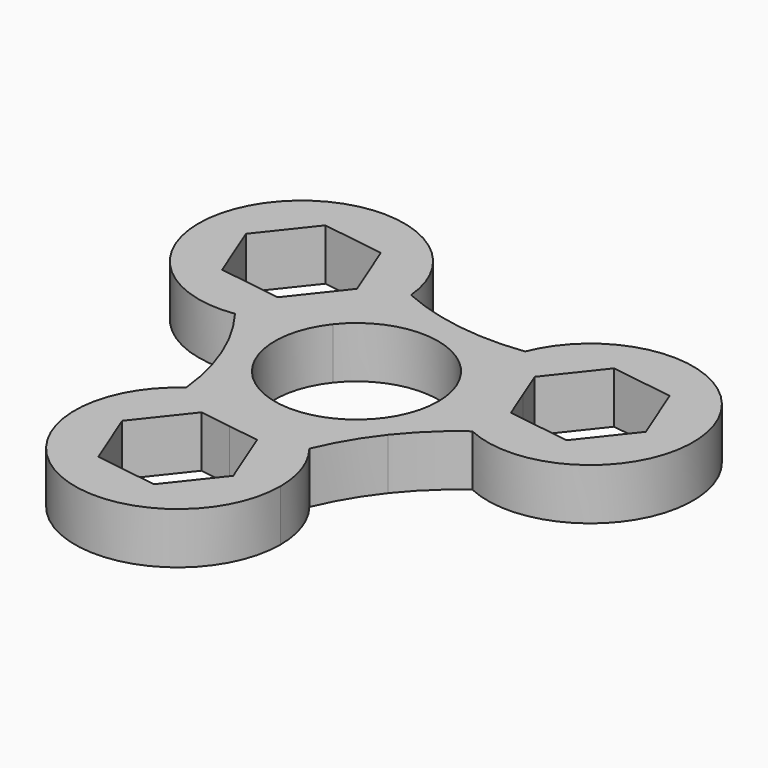
from build123d import *

# Parameters (mm, degrees)
F1_DEPTH = 7


with BuildPart() as f1:
    # F0 (on Top) → F1 (new body)
    with BuildSketch(Plane.XY):
        with BuildLine():
            ThreePointArc((2.1746022478, 14.8415331103), (6.4977862425, 13.5195700356), (10.2307544738, 10.9695789753))
            ThreePointArc((10.2307544738, 10.9695789753), (10.5585141702, 12.900767483), (11.1526052364, 14.7673074037))
            ThreePointArc((11.1526052364, 14.7673074037), (6.6610534474, 14.4959482424), (2.1746022478, 14.8415331103))
        make_face()
        with BuildLine():
            ThreePointArc((-6.6537135081, 13.4435150371), (-2.3461080653, 14.8153898682), (2.1746022478, 14.8415331103))
            ThreePointArc((2.1746022478, 14.8415331103), (-2.222405254, 15.7975651559), (-6.4473076734, 17.3460714654))
            ThreePointArc((-6.4473076734, 17.3460714654), (-6.4074297998, 16.7371058402), (-6.3941287506, 16.1269808862))
            ThreePointArc((-6.3941287506, 16.1269808862), (-6.4591760525, 14.7789848542), (-6.6537135081, 13.4435150371))
        make_face()
        with BuildLine():
            ThreePointArc((-14.6153112984, 3.3753037866), (-16.4516494537, 2.6935577561), (-18.3651659754, 2.2747857513))
            ThreePointArc((-18.3651659754, 2.2747857513), (-15.8843861596, -1.4793326091), (-13.9404458375, -5.5375057427))
            ThreePointArc((-13.9404458375, -5.5375057427), (-14.9571842212, -1.1325370512), (-14.6153112984, 3.3753037866))
        make_face()
        with BuildLine():
            ThreePointArc((-11.7984847082, -14.2565679638), (-10.1191795776, -13.2481782826), (-8.3155687842, -12.484042446))
            ThreePointArc((-8.3155687842, -12.484042446), (-11.6574499679, -9.4394841091), (-13.9404458375, -5.5375057427))
            ThreePointArc((-13.9404458375, -5.5375057427), (-12.5698901189, -9.8234419736), (-11.7984847082, -14.2565679638))
        make_face()
        with BuildLine():
            ThreePointArc((7.2125607389, -17.042093155), (9.2233325136, -13.0166159499), (11.7658431097, -9.3040279405))
            ThreePointArc((11.7658431097, -9.3040279405), (8.4593976642, -12.3870331863), (4.3845568245, -14.3448827619))
            ThreePointArc((4.3845568245, -14.3448827619), (5.8931352835, -15.5943252391), (7.2125607389, -17.042093155))
        make_face()
        with BuildLine():
            ThreePointArc((18.2457923815, -3.0895035015), (16.5328487354, -2.1393774383), (14.9692822923, -0.959472591))
            ThreePointArc((14.9692822923, -0.959472591), (14.0035578894, -5.375906104), (11.7658431097, -9.3040279405))
            ThreePointArc((11.7658431097, -9.3040279405), (14.792295096, -5.9741234333), (18.2457923815, -3.0895035015))
        make_face()
        with BuildLine():
            ThreePointArc((-15.0224460068, 22.9199938039), (-10.9533439645, 19.7969343363), (-6.4473076734, 17.3460714654))
            ThreePointArc((-6.4473076734, 17.3460714654), (-31.3755826932, 24.8107398249), (-18.3651659754, 2.2747857513))
            ThreePointArc((-18.3651659754, 2.2747857513), (-21.7888075854, 6.0944414943), (-25.7658114944, 9.3339679685))
            Line((-25.7658114944, 9.3339679685), (-28.9628918775, 17.3824881445))
            Line((-28.9628918775, 17.3824881445), (-23.5912091337, 24.1755010623))
            Line((-23.5912091337, 24.1755010623), (-15.0224460068, 22.9199938039))
        make_face()
        with BuildLine():
            ThreePointArc((27.3605198922, 1.5498229669), (22.6213200346, -0.4125930385), (18.2457923815, -3.0895035015))
            ThreePointArc((18.2457923815, -3.0895035015), (31.6851726942, -2.2094309865), (38.1634395091, 9.598343143))
            ThreePointArc((38.1634395091, 9.598343143), (26.7948193926, 23.348828222), (11.1526052364, 14.7673074037))
            ThreePointArc((11.1526052364, 14.7673074037), (16.1723449486, 15.82244014), (20.966359126, 17.646863319))
            Line((20.966359126, 17.646863319), (29.5351222529, 16.3913560607))
            Line((29.5351222529, 16.3913560607), (32.732202636, 8.3428358846))
            Line((32.732202636, 8.3428358846), (27.3605198922, 1.5498229669))
        make_face()
        with BuildLine():
            ThreePointArc((10.2306892415, -25.7253240292), (9.454648576, -21.1289233158), (7.2125607389, -17.042093155))
            ThreePointArc((7.2125607389, -17.042093155), (5.6164626368, -21.9168816343), (4.7994523683, -26.9808312875))
            Line((4.7994523683, -26.9808312875), (-0.5722303754, -33.7738442052))
            Line((-0.5722303754, -33.7738442052), (-9.1409935023, -32.5183369469))
            Line((-9.1409935023, -32.5183369469), (-12.3380738854, -24.4698167708))
            ThreePointArc((-12.3380738854, -24.4698167708), (-11.6679760701, -19.3843412978), (-11.7984847082, -14.2565679638))
            ThreePointArc((-11.7984847082, -14.2565679638), (-10.2342765243, -38.1432231127), (10.2306892415, -25.7253240292))
        make_face()
        with BuildLine():
            ThreePointArc((13.9404458706, 5.5375056594), (14.7327303657, 2.818981371), (15, 0))
            ThreePointArc((15, 0), (14.9923186063, -0.4799820909), (14.9692822923, -0.959472591))
            ThreePointArc((14.9692822923, -0.959472591), (16.5328487354, -2.1393774383), (18.2457923815, -3.0895035015))
            ThreePointArc((18.2457923815, -3.0895035015), (22.6213200346, -0.4125930385), (27.3605198922, 1.5498229669))
            Line((27.3605198922, 1.5498229669), (18.7917567653, 2.8053302252))
            Line((18.7917567653, 2.8053302252), (17.1932165738, 6.8295903133))
            Line((17.1932165738, 6.8295903133), (13.9404458706, 5.5375056594))
        make_face()
        with BuildLine():
            ThreePointArc((10.2307544738, 10.9695789753), (12.3870330043, 8.4593979307), (13.9404458706, 5.5375056594))
            Line((13.9404458706, 5.5375056594), (17.1932165738, 6.8295903133))
            Line((17.1932165738, 6.8295903133), (15.5946763822, 10.8538504013))
            Line((15.5946763822, 10.8538504013), (20.966359126, 17.646863319))
            ThreePointArc((20.966359126, 17.646863319), (16.1723449486, 15.82244014), (11.1526052364, 14.7673074037))
            ThreePointArc((11.1526052364, 14.7673074037), (10.5585141702, 12.900767483), (10.2307544738, 10.9695789753))
        make_face()
        with BuildLine():
            ThreePointArc((-11.76584351, 9.3040274344), (-9.4394840743, 11.6574499961), (-6.6537135081, 13.4435150371))
            ThreePointArc((-6.6537135081, 13.4435150371), (-6.4591760525, 14.7789848542), (-6.3941287506, 16.1269808862))
            ThreePointArc((-6.3941287506, 16.1269808862), (-6.4074297998, 16.7371058402), (-6.4473076734, 17.3460714654))
            ThreePointArc((-6.4473076734, 17.3460714654), (-10.9533439645, 19.7969343363), (-15.0224460068, 22.9199938039))
            Line((-15.0224460068, 22.9199938039), (-11.8253656237, 14.8714736279))
            Line((-11.8253656237, 14.8714736279), (-14.5112069956, 11.474967169))
            Line((-14.5112069956, 11.474967169), (-11.76584351, 9.3040274344))
        make_face()
        with BuildLine():
            ThreePointArc((-14.6153112984, 3.3753037866), (-13.5195700109, 6.4977862939), (-11.76584351, 9.3040274344))
            Line((-11.76584351, 9.3040274344), (-14.5112069956, 11.474967169))
            Line((-14.5112069956, 11.474967169), (-17.1970483675, 8.0784607102))
            Line((-17.1970483675, 8.0784607102), (-25.7658114944, 9.3339679685))
            ThreePointArc((-25.7658114944, 9.3339679685), (-21.7888075854, 6.0944414943), (-18.3651659754, 2.2747857513))
            ThreePointArc((-18.3651659754, 2.2747857513), (-16.4516494537, 2.6935577561), (-14.6153112984, 3.3753037866))
        make_face()
        with BuildLine():
            Line((-2.6820095782, -18.3045574823), (-2.1746023607, -14.8415330938))
            ThreePointArc((-2.1746023607, -14.8415330938), (-5.3759058028, -14.003558005), (-8.3155687842, -12.484042446))
            ThreePointArc((-8.3155687842, -12.484042446), (-10.1191795776, -13.2481782826), (-11.7984847082, -14.2565679638))
            ThreePointArc((-11.7984847082, -14.2565679638), (-11.6679760701, -19.3843412978), (-12.3380738854, -24.4698167708))
            Line((-12.3380738854, -24.4698167708), (-6.9663911416, -17.6768038531))
            Line((-6.9663911416, -17.6768038531), (-2.6820095782, -18.3045574823))
        make_face()
        with BuildLine():
            ThreePointArc((7.2125607389, -17.042093155), (5.8931352835, -15.5943252391), (4.3845568245, -14.3448827619))
            ThreePointArc((4.3845568245, -14.3448827619), (1.1325370065, -14.9571842246), (-2.1746023607, -14.8415330938))
            Line((-2.1746023607, -14.8415330938), (-2.6820095782, -18.3045574823))
            Line((-2.6820095782, -18.3045574823), (1.6023719853, -18.9323111115))
            Line((1.6023719853, -18.9323111115), (4.7994523683, -26.9808312875))
            ThreePointArc((4.7994523683, -26.9808312875), (5.6164626368, -21.9168816343), (7.2125607389, -17.042093155))
        make_face()
        with BuildLine():
            ThreePointArc((11.1523566965, 4.4300045275), (10.3004252283, 7.6446709467), (10.2307544738, 10.9695789753))
            ThreePointArc((10.2307544738, 10.9695789753), (6.4977862425, 13.5195700356), (2.1746022478, 14.8415331103))
            ThreePointArc((2.1746022478, 14.8415331103), (-2.3461080653, 14.8153898682), (-6.6537135081, 13.4435150371))
            ThreePointArc((-6.6537135081, 13.4435150371), (-7.674318088, 10.2783556881), (-9.412674808, 7.4432219475))
            Line((-9.412674808, 7.4432219475), (-8.7263339365, 6.9004870138))
            ThreePointArc((-8.7263339365, 6.9004870138), (1.6128300842, 11.0074703779), (10.3391640207, 4.1069833641))
            Line((10.3391640207, 4.1069833641), (11.1523566965, 4.4300045275))
        make_face()
        with BuildLine():
            ThreePointArc((11.7658431097, -9.3040279405), (14.0035578894, -5.375906104), (14.9692822923, -0.959472591))
            ThreePointArc((14.9692822923, -0.959472591), (12.738476179, 1.5069765769), (11.1523566965, 4.4300045275))
            Line((11.1523566965, 4.4300045275), (10.3391640207, 4.1069833641))
            ThreePointArc((10.3391640207, 4.1069833641), (10.9267750213, 2.0907445168), (11.125, 0))
            ThreePointArc((11.125, 0), (7.274025375, -8.4174924914), (-1.6128300842, -11.0074703779))
            Line((-1.6128300842, -11.0074703779), (-1.7396818885, -11.873226475))
            ThreePointArc((-1.7396818885, -11.873226475), (1.4702666292, -12.7427653908), (4.3845568245, -14.3448827619))
            ThreePointArc((4.3845568245, -14.3448827619), (8.4593976642, -12.3870331863), (11.7658431097, -9.3040279405))
        make_face()
        with BuildLine():
            ThreePointArc((-9.412674808, 7.4432219475), (-7.674318088, 10.2783556881), (-6.6537135081, 13.4435150371))
            ThreePointArc((-6.6537135081, 13.4435150371), (-9.4394840743, 11.6574499961), (-11.76584351, 9.3040274344))
            Line((-11.76584351, 9.3040274344), (-9.412674808, 7.4432219475))
        make_face()
        with BuildLine():
            Line((-9.412674808, 7.4432219475), (-11.76584351, 9.3040274344))
            ThreePointArc((-11.76584351, 9.3040274344), (-13.5195700109, 6.4977862939), (-14.6153112984, 3.3753037866))
            ThreePointArc((-14.6153112984, 3.3753037866), (-11.7706918576, 5.0980944442), (-9.412674808, 7.4432219475))
        make_face()
        with BuildLine():
            ThreePointArc((14.9692822923, -0.959472591), (14.9923186063, -0.4799820909), (15, 0))
            ThreePointArc((15, 0), (14.7327303657, 2.818981371), (13.9404458706, 5.5375056594))
            Line((13.9404458706, 5.5375056594), (11.1523566965, 4.4300045275))
            ThreePointArc((11.1523566965, 4.4300045275), (12.738476179, 1.5069765769), (14.9692822923, -0.959472591))
        make_face()
        with BuildLine():
            ThreePointArc((-1.6128300842, -11.0074703779), (-10.3391640207, -4.1069833641), (-8.7263339365, 6.9004870138))
            Line((-8.7263339365, 6.9004870138), (-9.412674808, 7.4432219475))
            ThreePointArc((-9.412674808, 7.4432219475), (-11.7706918576, 5.0980944442), (-14.6153112984, 3.3753037866))
            ThreePointArc((-14.6153112984, 3.3753037866), (-14.9571842212, -1.1325370512), (-13.9404458375, -5.5375057427))
            ThreePointArc((-13.9404458375, -5.5375057427), (-11.6574499679, -9.4394841091), (-8.3155687842, -12.484042446))
            ThreePointArc((-8.3155687842, -12.484042446), (-5.064158091, -11.785332265), (-1.7396818885, -11.873226475))
            Line((-1.7396818885, -11.873226475), (-1.6128300842, -11.0074703779))
        make_face()
        with BuildLine():
            ThreePointArc((-8.3155687842, -12.484042446), (-5.3759058028, -14.003558005), (-2.1746023607, -14.8415330938))
            Line((-2.1746023607, -14.8415330938), (-1.7396818885, -11.873226475))
            ThreePointArc((-1.7396818885, -11.873226475), (-5.064158091, -11.785332265), (-8.3155687842, -12.484042446))
        make_face()
        with BuildLine():
            ThreePointArc((-2.1746023607, -14.8415330938), (1.1325370065, -14.9571842246), (4.3845568245, -14.3448827619))
            ThreePointArc((4.3845568245, -14.3448827619), (1.4702666292, -12.7427653908), (-1.7396818885, -11.873226475))
            Line((-1.7396818885, -11.873226475), (-2.1746023607, -14.8415330938))
        make_face()
        with BuildLine():
            Line((11.1523566965, 4.4300045275), (13.9404458706, 5.5375056594))
            ThreePointArc((13.9404458706, 5.5375056594), (12.3870330043, 8.4593979307), (10.2307544738, 10.9695789753))
            ThreePointArc((10.2307544738, 10.9695789753), (10.3004252283, 7.6446709467), (11.1523566965, 4.4300045275))
        make_face()
    extrude(amount=F1_DEPTH)


solid = f1.part
